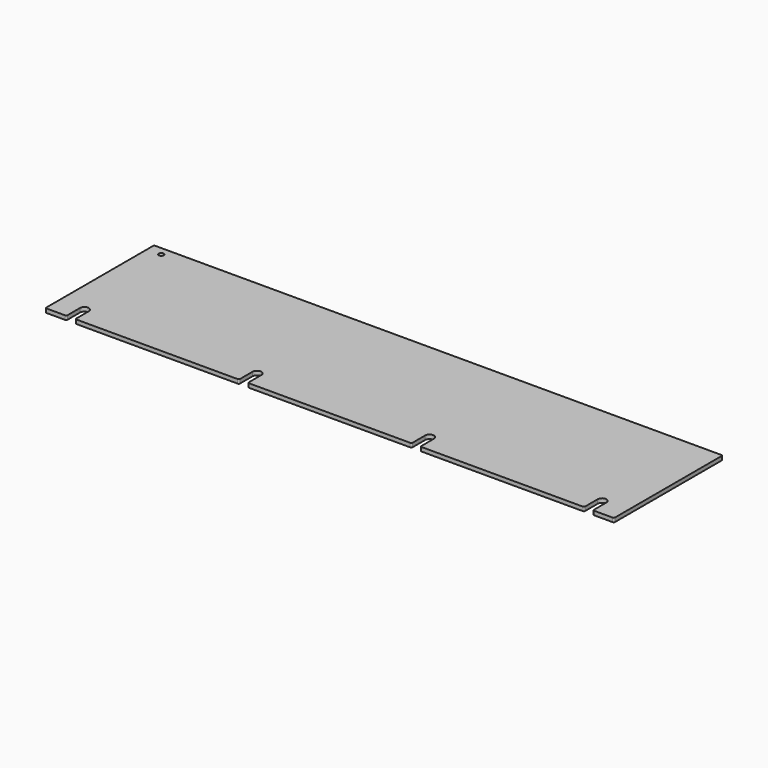
from build123d import *

# Parameters (mm, degrees)
SKETCH_R  = 1.8288
PAD_DEPTH = 3


with BuildPart() as part:
    # Sketch → Pad (new body)
    with BuildSketch(Plane.XY):
        with BuildLine():
            ThreePointArc((-211.725, 50.8), (-212.432107, 50.507107), (-212.725, 49.8))
            Line((-212.725, -49.8), (-212.725, 49.8))
            ThreePointArc((-212.725, -49.8), (-212.432107, -50.507107), (-211.725, -50.8))
            Line((-211.725, -50.8), (-197.977, -50.8))
            ThreePointArc((-197.977, -50.8), (-197.269893, -50.507107), (-196.977, -49.8))
            Line((-196.977, -38.1), (-196.977, -49.8))
            ThreePointArc((-190.373, -38.1), (-193.675, -34.798), (-196.977, -38.1))
            Line((-190.373, -38.1), (-190.373, -49.8))
            ThreePointArc((-190.373, -49.8), (-190.080107, -50.507107), (-189.373, -50.8))
            Line((-189.373, -50.8), (-68.860333, -50.8))
            ThreePointArc((-68.860333, -50.8), (-68.153227, -50.507107), (-67.860333, -49.8))
            Line((-67.860333, -38.1), (-67.860333, -49.8))
            ThreePointArc((-61.256333, -38.1), (-64.558333, -34.798), (-67.860333, -38.1))
            Line((-61.256333, -38.1), (-61.256333, -49.8))
            ThreePointArc((-61.256333, -49.8), (-60.96344, -50.507107), (-60.256333, -50.8))
            Line((-60.256333, -50.8), (60.256333, -50.8))
            ThreePointArc((60.256333, -50.8), (60.96344, -50.507107), (61.256333, -49.8))
            Line((61.256333, -38.1), (61.256333, -49.8))
            ThreePointArc((67.860333, -38.1), (64.558333, -34.798), (61.256333, -38.1))
            Line((67.860333, -38.1), (67.860333, -49.8))
            ThreePointArc((67.860333, -49.8), (68.153227, -50.507107), (68.860333, -50.8))
            Line((68.860333, -50.8), (189.373, -50.8))
            ThreePointArc((189.373, -50.8), (190.080107, -50.507107), (190.373, -49.8))
            Line((190.373, -38.1), (190.373, -49.8))
            ThreePointArc((196.977, -38.1), (193.675, -34.798), (190.373, -38.1))
            Line((196.977, -38.1), (196.977, -49.8))
            ThreePointArc((196.977, -49.8), (197.269893, -50.507107), (197.977, -50.8))
            Line((197.977, -50.8), (211.725, -50.8))
            ThreePointArc((211.725, -50.8), (212.432107, -50.507107), (212.725, -49.8))
            Line((212.725, 49.8), (212.725, -49.8))
            ThreePointArc((212.725, 49.8), (212.432107, 50.507107), (211.725, 50.8))
            Line((-211.725, 50.8), (211.725, 50.8))
        make_face()
        with Locations((-202.2602, 44.45)):
            Circle(SKETCH_R, mode=Mode.SUBTRACT)
    extrude(amount=PAD_DEPTH)


solid = part.part
